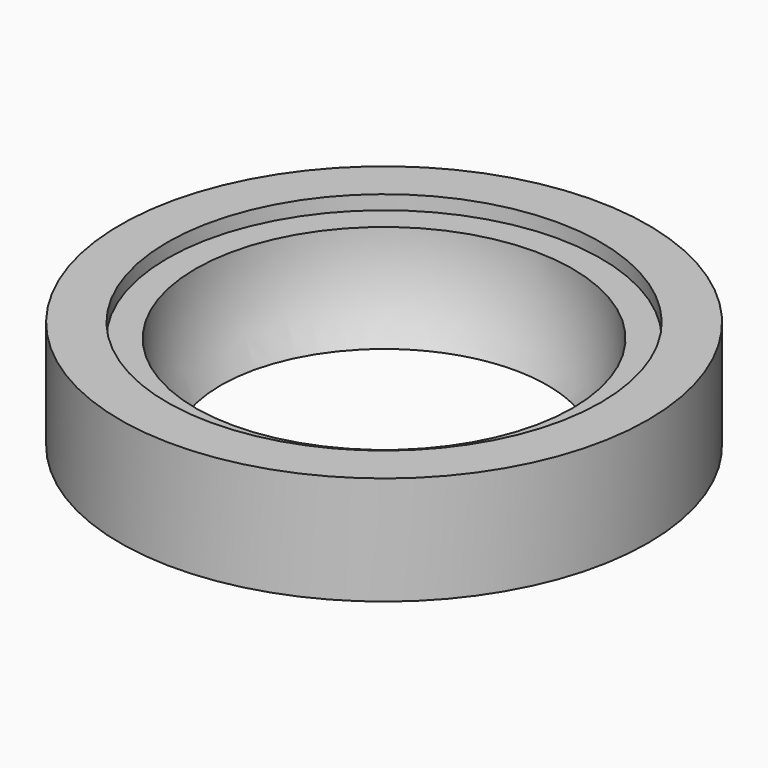
from build123d import *

# Parameters (mm, degrees)
F0_R     = 56
F1_DEPTH = 23
F2_R     = 46
F3_DEPTH = 3
F5_ANGLE = -180


with BuildPart() as f1:
    # F0 (on Top) → F1 (new body)
    with BuildSketch(Plane.XY):
        Circle(F0_R)
    extrude(amount=-F1_DEPTH)

    # F2 (on face) → F3 (cut)
    with BuildSketch(Plane.XY):
        Circle(F2_R)
    extrude(amount=-F3_DEPTH, mode=Mode.SUBTRACT)

    # F4 (on face) → F5 (revolve, cut)
    with BuildSketch(Plane.XY.offset(-3)):
        with BuildLine():
            Line((0, -40), (0, 40))
            ThreePointArc((0, 40), (-40, 0), (0, -40))
        make_face()
    revolve(axis=Axis((0, 0, -3), (0, 1, 0)), revolution_arc=F5_ANGLE, mode=Mode.SUBTRACT)


solid = f1.part
